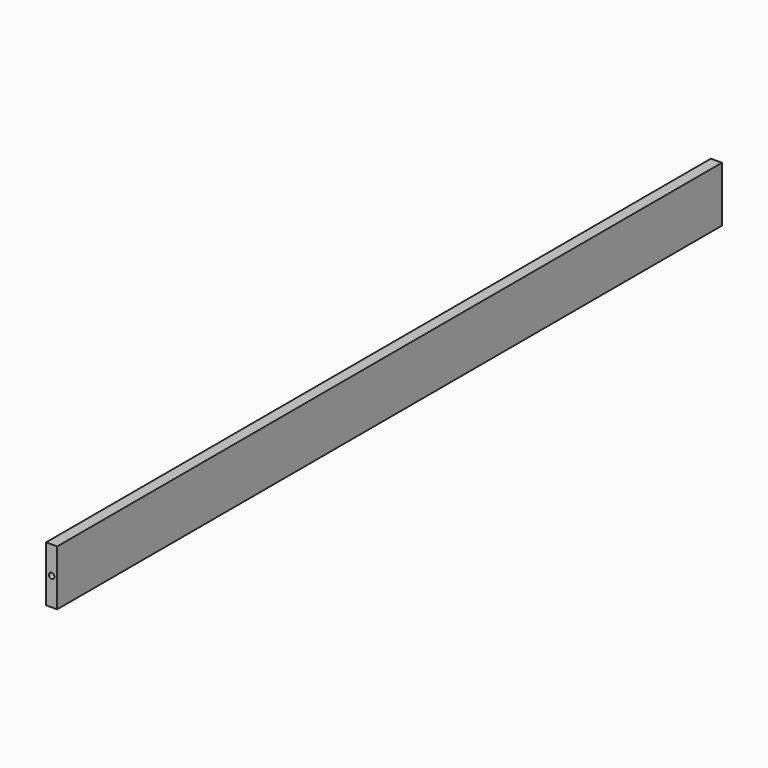
from build123d import *

# Parameters (mm, degrees)
F0_W     = 12
F0_H     = 60
F1_DEPTH = 900
F3_R     = 3
F4_DEPTH = 12
F2_R     = 3
F5_DEPTH = 12


with BuildPart() as f1:
    # F0 (on Front) → F1 (new body)
    with BuildSketch(Plane.XZ):
        with Locations((6, 30)):
            Rectangle(F0_W, F0_H)
    extrude(amount=F1_DEPTH)

    # F3 (on Front) → F4 (cut)
    with BuildSketch(Plane.XZ):
        with Locations((6, 30)):
            Circle(F3_R)
    extrude(amount=F4_DEPTH, mode=Mode.SUBTRACT)

    # F2 (on face) → F5 (cut)
    with BuildSketch(Plane.XZ.offset(900)):
        with Locations((6, 30)):
            Circle(F2_R)
    extrude(amount=-F5_DEPTH, mode=Mode.SUBTRACT)


solid = f1.part
